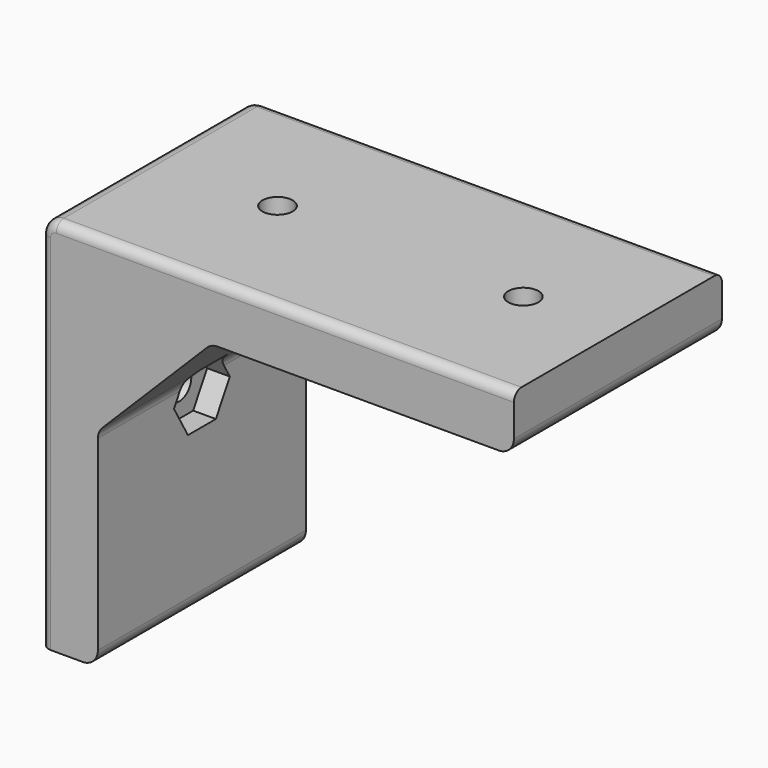
from build123d import *

# Parameters (mm, degrees)
F1_DEPTH = 17.4625
F2_R     = 2.032
F4_DEPTH = 25.4
F5_START = -5.588
F5_DEPTH = 19.812
F3_R     = 2.032
F6_DEPTH = 25.4
F7_START = -4.572
F7_DEPTH = 20.828
F8_R     = 2.032
F9_R     = 1.27


with BuildPart() as f1:
    # F0 (on Front) → F1 (new body, symmetric)
    with BuildSketch(Plane.XZ):
        Polygon((63.5, 0), (0, 0), (0, -50.8), (7.62, -50.8), (7.62, -22.86), (22.86, -7.62), (63.5, -7.62), align=None)
    extrude(amount=F1_DEPTH, both=True)

    # F2 (on face) → F4 (cut)
    with BuildSketch(Plane.XY):
        with Locations((17.78, 0)):
            Circle(F2_R)
        with Locations((50.8, 0)):
            Circle(F2_R)
    extrude(amount=-F4_DEPTH, mode=Mode.SUBTRACT)

    # F2 (on face) → F5 (cut)
    with BuildSketch(Plane.XY.offset(F5_START)):
        Polygon((21.844, 2.346351494), (17.78, 4.692702988), (13.716, 2.346351494), (13.716, -2.346351494), (17.78, -4.692702988), (21.844, -2.346351494), align=None)
        with Locations((17.78, 0)):
            Circle(F2_R, mode=Mode.SUBTRACT)
        Polygon((54.864, 2.346351494), (50.8, 4.692702988), (46.736, 2.346351494), (46.736, -2.346351494), (50.8, -4.692702988), (54.864, -2.346351494), align=None)
        with Locations((50.8, 0)):
            Circle(F2_R, mode=Mode.SUBTRACT)
    extrude(amount=-F5_DEPTH, mode=Mode.SUBTRACT)

    # F3 (on face) → F6 (cut)
    with BuildSketch(Plane(origin=(0, 0, 0), x_dir=(0, -1, 0), z_dir=(-1, 0, 0))):
        with Locations((0, -25.4)):
            Circle(F3_R)
    extrude(amount=-F6_DEPTH, mode=Mode.SUBTRACT)

    # F3 (on face) → F7 (cut)
    with BuildSketch(Plane(origin=(0, 0, 0), x_dir=(0, -1, 0), z_dir=(-1, 0, 0)).offset(F7_START)):
        Polygon((-2.346351494, -29.464), (2.346351494, -29.464), (4.692702988, -25.4), (2.346351494, -21.336), (-2.346351494, -21.336), (-4.692702988, -25.4), align=None)
        with Locations((0, -25.4)):
            Circle(F3_R, mode=Mode.SUBTRACT)
    extrude(amount=-F7_DEPTH, mode=Mode.SUBTRACT)

    # F8
    f8_edges = [f1.edges().sort_by_distance(p)[0] for p in [
        (63.5, 0, -7.62),
        (7.62, 0, -50.8),
        (7.62, -10.344367, -22.86),
        (7.62, 10.344367, -22.86),
        (22.86, 0, -7.62),
        (0, 0, 0),
    ]]
    fillet(f8_edges, radius=F8_R)

    # F9
    f9_edges = [f1.edges().sort_by_distance(p)[0] for p in [
        (32.766, -17.4625, 0),
        (32.766, 17.4625, 0),
    ]]
    fillet(f9_edges, radius=F9_R)


solid = f1.part
